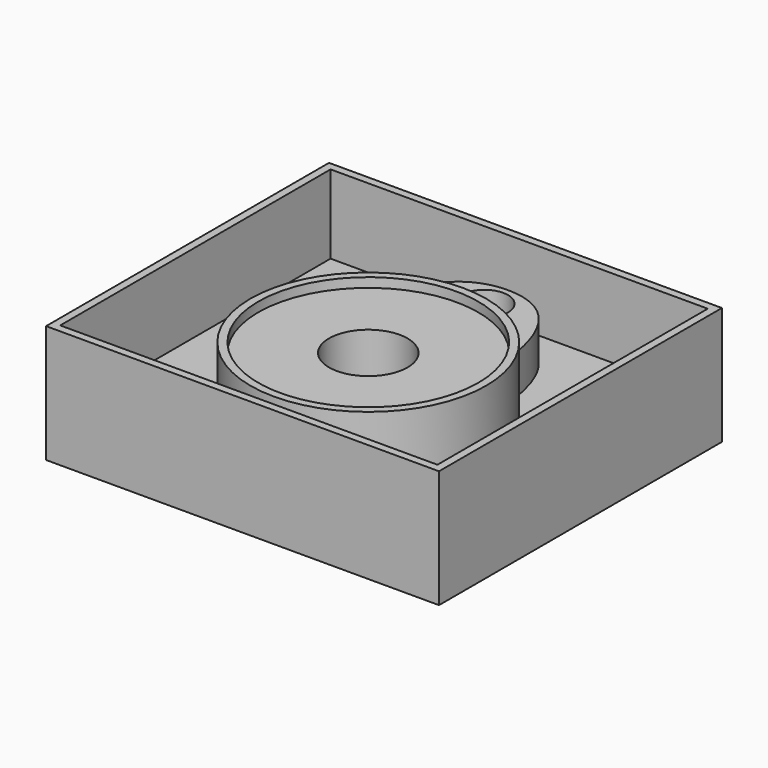
from build123d import *

# Parameters (mm, degrees)
SKETCH_R          = 15
PAD_DEPTH         = 7
SKETCH001_R       = 3
PAD001_DEPTH      = 5
SKETCH002_R       = 15
SKETCH002_R_2     = 14
PAD002_DEPTH      = 8.2
SKETCH003_W       = 50
SKETCH003_H       = 45
PAD003_DEPTH      = 5
SKETCH004_W       = 50
SKETCH004_H       = 45
SKETCH004_W_2     = 48
SKETCH004_H_2     = 43
PAD004_DEPTH      = 10
SKETCH005_R       = 5
POCKET_DEPTH      = 5.001
POCKET_DEPTH_BACK = -10.001
SKETCH006_R       = 3
POCKET001_DEPTH   = 4


with BuildPart() as part:
    # Sketch → Pad (new body)
    with BuildSketch(Plane.XY):
        Circle(SKETCH_R)
    extrude(amount=PAD_DEPTH)

    # Sketch001 → Pad001 (join)
    with BuildSketch(Plane.XY):
        with BuildLine():
            add(Edge.make_bspline(
                [(-9.089263, 11.932531), (-7.840475, 19.926179), (0, 24.511142), (7.840475, 19.926179), (9.089263, 11.932531)],
                knots=[0, 0, 0, 0, 0.5, 1, 1, 1, 1], degree=3))
            Line((9.089263, 11.932531), (-9.089263, 11.932531))
        make_face()
        with Locations((0, 18.468813)):
            Circle(SKETCH001_R, mode=Mode.SUBTRACT)
    extrude(amount=PAD001_DEPTH)

    # Sketch002 → Pad002 (join)
    with BuildSketch(Plane.XY):
        Circle(SKETCH002_R)
        Circle(SKETCH002_R_2, mode=Mode.SUBTRACT)
    extrude(amount=PAD002_DEPTH)

    # Sketch003 → Pad003 (join)
    with BuildSketch(Plane.XY):
        with Locations((0, 2.5)):
            Rectangle(SKETCH003_W, SKETCH003_H)
    extrude(amount=-PAD003_DEPTH)

    # Sketch004 → Pad004 (join)
    with BuildSketch(Plane.XY):
        with Locations((0, 2.5)):
            Rectangle(SKETCH004_W, SKETCH004_H)
        with Locations((0, 2.5)):
            Rectangle(SKETCH004_W_2, SKETCH004_H_2, mode=Mode.SUBTRACT)
    extrude(amount=PAD004_DEPTH)

    # Sketch005 → Pocket (cut, two sides)
    with BuildSketch(Plane.XY) as pocket_sk:
        Circle(SKETCH005_R)
    extrude(amount=-POCKET_DEPTH, mode=Mode.SUBTRACT)
    extrude(pocket_sk.sketch, amount=-POCKET_DEPTH_BACK, mode=Mode.SUBTRACT)

    # Sketch006 → Pocket001 (cut)
    with BuildSketch(Plane.XY):
        with Locations((0, 18.468813)):
            Circle(SKETCH006_R)
    extrude(amount=-POCKET001_DEPTH, mode=Mode.SUBTRACT)


solid = part.part
